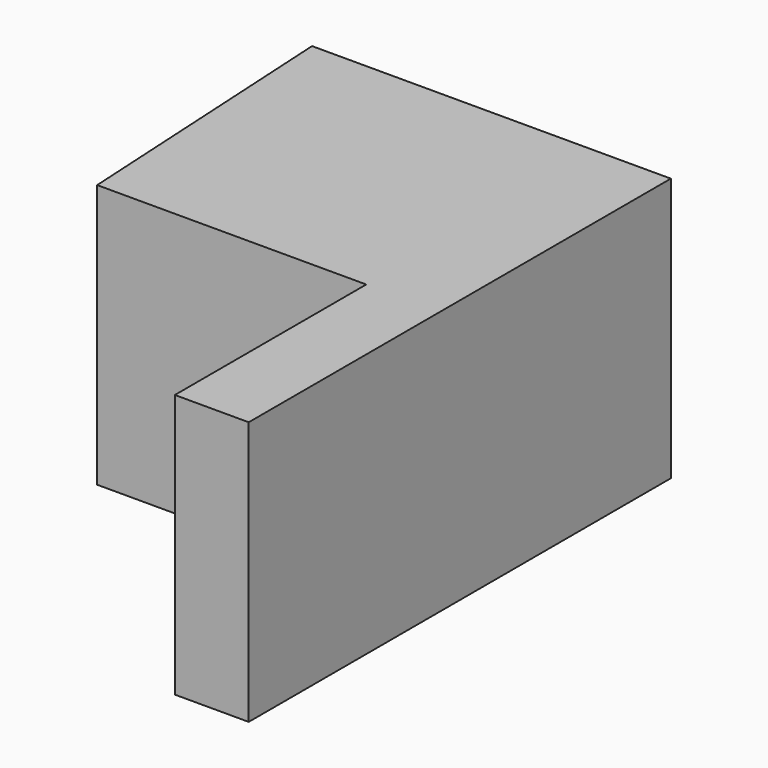
from build123d import *

# Parameters (mm, degrees)
F1_DEPTH = 50
F2_T     = -4


with BuildPart() as f1:
    # F0 (on Top) → F1 (new body)
    with BuildSketch(Plane.XY):
        Polygon((-32.005086571, 54.6525474638), (-29.005086571, 0), (21.994913429, 0), (21.994913429, -45.3474525362), (35.994913429, -45.3474525362), (35.994913429, 54.6525474638), align=None)
    extrude(amount=F1_DEPTH)

    # F2
    f2_openings = [f1.faces().sort_by_distance(p)[0] for p in [
        (6.643645, 20.065882, 0),
    ]]
    offset(amount=F2_T, openings=f2_openings, kind=Kind.INTERSECTION)


solid = f1.part
